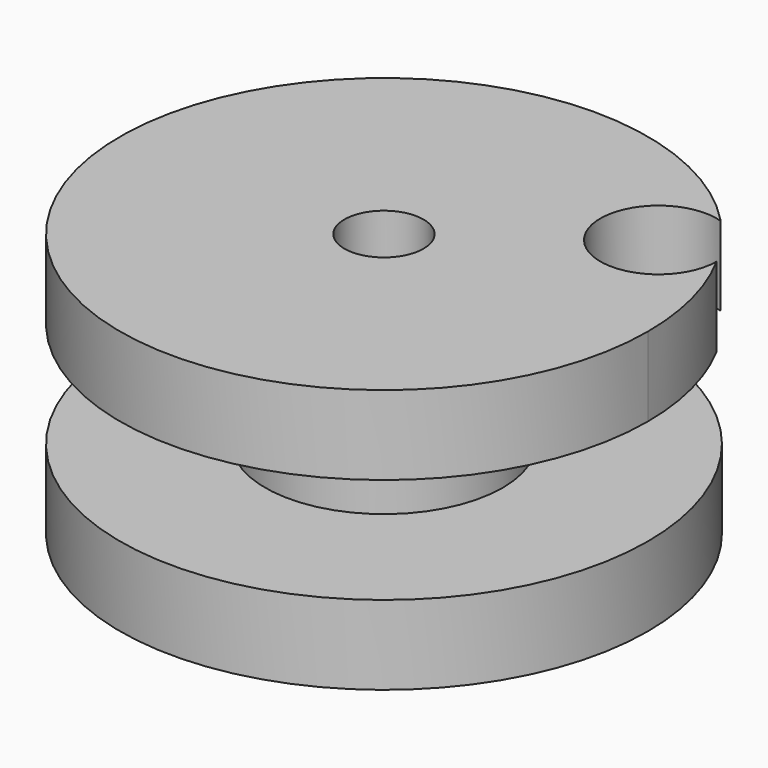
from build123d import *

# Parameters (mm, degrees)
F0_R     = 3.81
F1_DEPTH = 12.7
F2_DEPTH = 12.7
F3_T     = -7.62
F5_DEPTH = 10.16


with BuildPart() as f1:
    # F0 (on Top) → F1 (new body)
    with BuildSketch(Plane.XY):
        with BuildLine():
            ThreePointArc((13.0135805012, 21.8129943506), (-22.0873826509, -12.5422297712), (25.4, 0))
            ThreePointArc((25.4, 0), (23.5709280626, 9.4642141917), (18.3471377744, 17.5653788883))
            ThreePointArc((18.3471377744, 17.5653788883), (7.7542007796, 9.7366332552), (13.0135805012, 21.8129943506))
        make_face()
        Circle(F0_R, mode=Mode.SUBTRACT)
        with BuildLine():
            ThreePointArc((13.0135805012, 21.8129943506), (7.7542007796, 9.7366332552), (18.3471377744, 17.5653788883))
            ThreePointArc((18.3471377744, 17.5653788883), (15.8235338016, 19.8689651978), (13.0135805012, 21.8129943506))
        make_face()
    extrude(amount=F1_DEPTH)

    # F2 (add): a face of the model
    f2_faces = [f1.faces().sort_by_distance(p)[0] for p in [
        (-24.6815795103, 0, 12.7),
    ]]
    extrude(f2_faces, amount=F2_DEPTH)

    # F3
    f3_openings = [f1.faces().sort_by_distance(p)[0] for p in [
        (-25.4, 0, 12.7),
    ]]
    offset(amount=F3_T, openings=f3_openings)

    # F4 (on face) → F5 (cut)
    with BuildSketch(Plane.XY.offset(25.4)):
        with BuildLine():
            ThreePointArc((22.3176650745, 12.1277296154), (20.5505059881, 14.927715955), (18.434145823, 17.4740455469))
            ThreePointArc((18.434145823, 17.4740455469), (12.1795633167, 8.8471330951), (22.3176650745, 12.1277296154))
        make_face()
    extrude(amount=-F5_DEPTH, mode=Mode.SUBTRACT)


solid = f1.part
